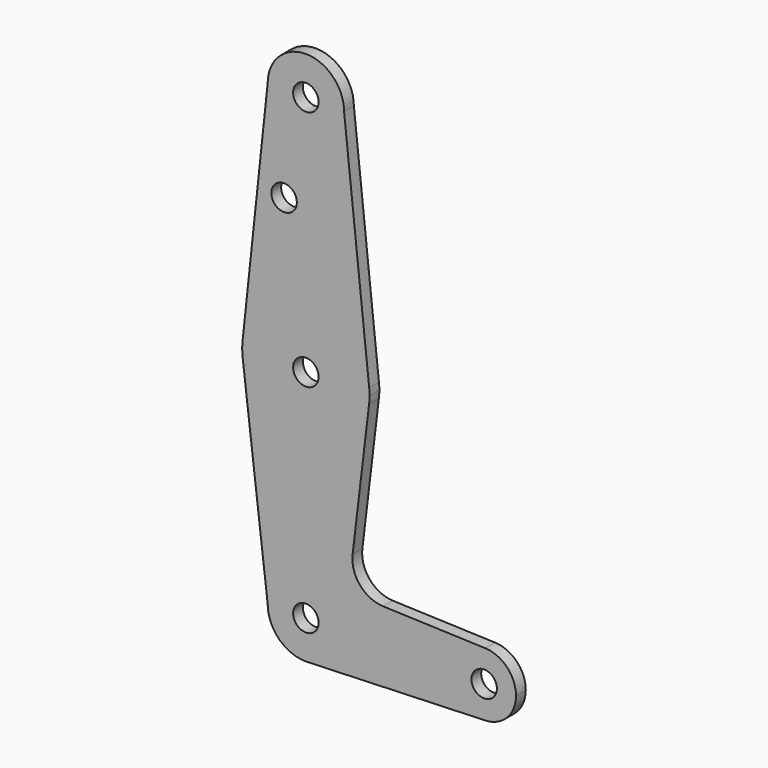
from build123d import *

# Parameters (mm, degrees)
F0_R     = 3.175
F1_DEPTH = 3.048


with BuildPart() as f1:
    # F0 (on Front) → F1 (new body)
    with BuildSketch(Plane.XZ):
        with BuildLine():
            ThreePointArc((-9.525, 114.3), (0, 104.775), (9.525, 114.3))
            ThreePointArc((9.525, 114.3), (0, 123.825), (-9.525, 114.3))
        make_face()
        with Locations((0, 114.3)):
            Circle(F0_R, mode=Mode.SUBTRACT)
        with BuildLine():
            Line((15.785299, 55.660216), (9.525, 114.3))
            ThreePointArc((9.525, 114.3), (0, 104.775), (-9.525, 114.3))
            Line((-9.525, 114.3), (-15.785299, 55.660216))
            ThreePointArc((-15.785299, 55.660216), (0, 69.85), (15.785299, 55.660216))
        make_face()
        with Locations((-5.427185, 90.5002)):
            Circle(F0_R, mode=Mode.SUBTRACT)
        with BuildLine():
            ThreePointArc((15.875, 53.975), (15.852559, 54.818801), (15.785299, 55.660216))
            ThreePointArc((15.785299, 55.660216), (0, 69.85), (-15.785299, 55.660216))
            ThreePointArc((-15.785299, 55.660216), (-15.874674, 53.873202), (-15.762389, 52.08748))
            ThreePointArc((-15.762389, 52.08748), (0, 38.1), (15.762389, 52.08748))
            ThreePointArc((15.762389, 52.08748), (15.846822, 53.029562), (15.875, 53.975))
        make_face()
        with Locations((0, 53.975)):
            Circle(F0_R, mode=Mode.SUBTRACT)
        with BuildLine():
            ThreePointArc((15.762389, 52.08748), (0, 38.1), (-15.762389, 52.08748))
            Line((-15.762389, 52.08748), (-9.525, 0))
            ThreePointArc((-9.525, 0), (0, 9.525), (9.525, 0))
            ThreePointArc((9.525, 0), (6.97129, -6.490511), (0.67949, -9.500732))
            Line((0.67949, -9.500732), (44.45, -7.9375))
            ThreePointArc((44.45, -7.9375), (36.513756, 0.141225), (44.732405, 7.932475))
            Line((44.732405, 7.932475), (19.25906, 8.839355))
            ThreePointArc((19.25906, 8.839355), (13.502512, 11.614293), (11.648113, 17.729792))
            Line((11.648113, 17.729792), (15.762389, 52.08748))
        make_face()
        with BuildLine():
            ThreePointArc((9.525, 0), (0, 9.525), (-9.525, 0))
            ThreePointArc((-9.525, 0), (-6.735192, -6.735192), (0, -9.525))
            Line((0, -9.525), (0.67949, -9.500732))
            ThreePointArc((0.67949, -9.500732), (6.97129, -6.490511), (9.525, 0))
        make_face()
        Circle(F0_R, mode=Mode.SUBTRACT)
        with BuildLine():
            Line((0.67949, -9.500732), (0, -9.525))
            ThreePointArc((0, -9.525), (0.339962, -9.518931), (0.67949, -9.500732))
        make_face()
        with BuildLine():
            ThreePointArc((52.3875, 0), (50.161633, 5.51191), (44.732405, 7.932475))
            ThreePointArc((44.732405, 7.932475), (36.513756, 0.141225), (44.45, -7.9375))
            ThreePointArc((44.45, -7.9375), (50.06266, -5.61266), (52.3875, 0))
        make_face()
        with Locations((44.45, 0)):
            Circle(F0_R, mode=Mode.SUBTRACT)
    extrude(amount=F1_DEPTH)


solid = f1.part
